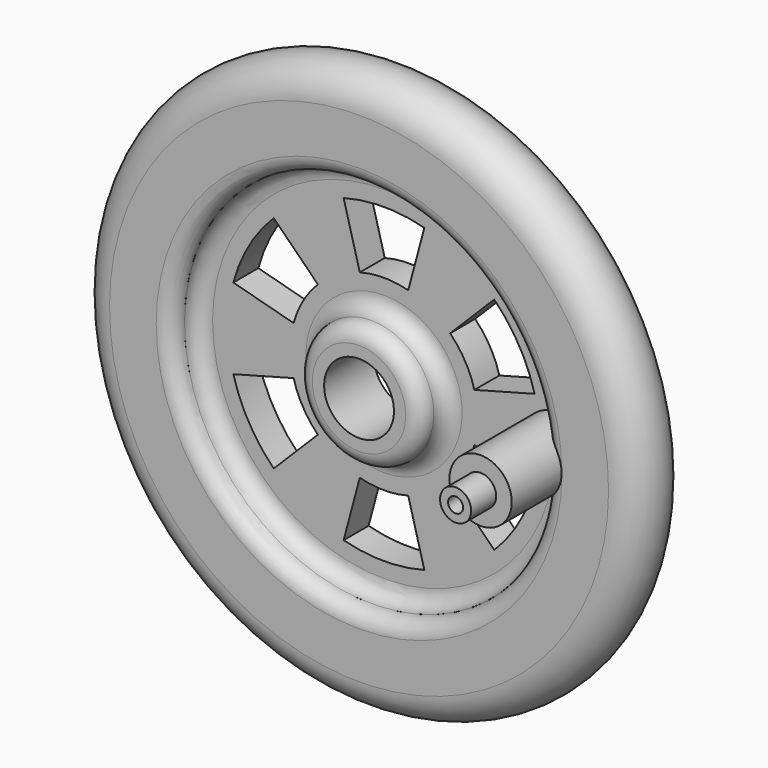
from build123d import *

# Parameters (mm, degrees)
F3_DEPTH = 25.4
F4_R     = 3.175
F5_DEPTH = 9.525
F6_R     = 1.5875
F7_DEPTH = 3.175
F8_R     = 0.762
F9_DEPTH = 3.048


with BuildPart() as f1:
    # F0 (on Top) → F1 (revolve)
    with BuildSketch(Plane.XY):
        with BuildLine():
            Line((-3.556, 0.685165), (-3.556, 7.035165))
            Line((-3.556, 7.035165), (-25.4, 7.035165))
            ThreePointArc((-25.4, 7.035165), (-28.575, 3.860165), (-25.4, 0.685165))
            Line((-25.4, 0.685165), (-20.6502, 0.685165))
            ThreePointArc((-20.6502, 0.685165), (-19.518688, 1.153853), (-19.05, 2.285365))
            Line((-19.05, 2.285365), (-19.05, 2.259965))
            ThreePointArc((-19.05, 2.259965), (-18.581312, 3.391478), (-17.4498, 3.860165))
            Line((-17.4498, 3.860165), (-7.9502, 3.860165))
            ThreePointArc((-7.9502, 3.860165), (-6.818688, 3.391478), (-6.35, 2.259965))
            Line((-6.35, 2.259965), (-6.35, 2.285365))
            ThreePointArc((-6.35, 2.285365), (-5.881312, 1.153853), (-4.7498, 0.685165))
            Line((-4.7498, 0.685165), (-3.556, 0.685165))
        make_face()
    revolve(axis=Axis((0, 0.531173, 0), (0, -1, 0)))

    # F2 (on face) → F3 (cut)
    with BuildSketch(Plane(origin=(0, 7.035165, 0), x_dir=(-1, 0, 0), z_dir=(0, 1, 0))):
        with BuildLine():
            Line((9.200443, 2.465251), (15.334072, 4.108752))
            ThreePointArc((15.334072, 4.108752), (13.748153, 7.9375), (11.22532, 11.22532))
            Line((11.22532, 11.22532), (6.735192, 6.735192))
            ThreePointArc((6.735192, 6.735192), (8.248892, 4.7625), (9.200443, 2.465251))
        make_face()
        with BuildLine():
            Line((2.465251, 9.200443), (4.108752, 15.334072))
            ThreePointArc((4.108752, 15.334072), (0, 15.875), (-4.108752, 15.334072))
            Line((-4.108752, 15.334072), (-2.465251, 9.200443))
            ThreePointArc((-2.465251, 9.200443), (0, 9.525), (2.465251, 9.200443))
        make_face()
        with BuildLine():
            Line((-6.735192, 6.735192), (-11.22532, 11.22532))
            ThreePointArc((-11.22532, 11.22532), (-13.748153, 7.9375), (-15.334072, 4.108752))
            Line((-15.334072, 4.108752), (-9.200443, 2.465251))
            ThreePointArc((-9.200443, 2.465251), (-8.248892, 4.7625), (-6.735192, 6.735192))
        make_face()
        with BuildLine():
            Line((-9.200443, -2.465251), (-15.334072, -4.108752))
            ThreePointArc((-15.334072, -4.108752), (-13.748153, -7.9375), (-11.22532, -11.22532))
            Line((-11.22532, -11.22532), (-6.735192, -6.735192))
            ThreePointArc((-6.735192, -6.735192), (-8.248892, -4.7625), (-9.200443, -2.465251))
        make_face()
        with BuildLine():
            Line((-2.465251, -9.200443), (-4.108752, -15.334072))
            ThreePointArc((-4.108752, -15.334072), (0, -15.875), (4.108752, -15.334072))
            Line((4.108752, -15.334072), (2.465251, -9.200443))
            ThreePointArc((2.465251, -9.200443), (0, -9.525), (-2.465251, -9.200443))
        make_face()
        with BuildLine():
            Line((6.735192, -6.735192), (11.22532, -11.22532))
            ThreePointArc((11.22532, -11.22532), (13.748153, -7.9375), (15.334072, -4.108752))
            Line((15.334072, -4.108752), (9.200443, -2.465251))
            ThreePointArc((9.200443, -2.465251), (8.248892, -4.7625), (6.735192, -6.735192))
        make_face()
    extrude(amount=-F3_DEPTH, mode=Mode.SUBTRACT)

    # F4 (on face) → F5 (join)
    with BuildSketch(Plane.XZ.offset(-3.860165)):
        with Locations((17.4498, 0)):
            Circle(F4_R)
    extrude(amount=F5_DEPTH)

    # F6 (on face) → F7 (join)
    with BuildSketch(Plane.XZ.offset(5.664835)):
        with Locations((17.4498, 0)):
            Circle(F6_R)
    extrude(amount=F7_DEPTH)

    # F8 (on face) → F9 (cut)
    with BuildSketch(Plane.XZ.offset(8.839835)):
        with Locations((17.4498, 0)):
            Circle(F8_R)
    extrude(amount=-F9_DEPTH, mode=Mode.SUBTRACT)


solid = f1.part
